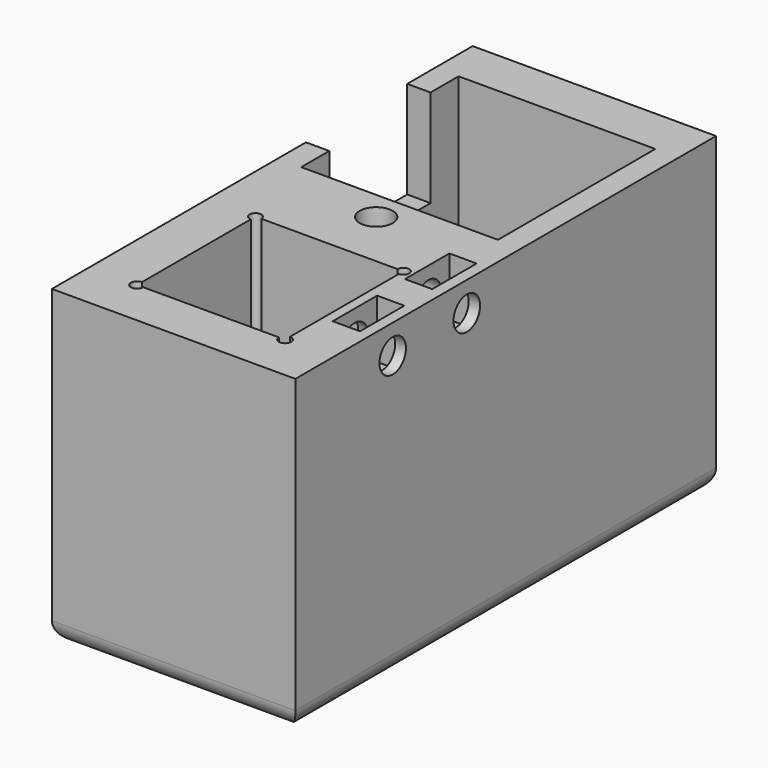
from build123d import *

# Parameters (mm, degrees)
SKETCH_W        = 25
SKETCH_H        = 54
PAD_DEPTH       = 32
SKETCH001_W     = 15.2
SKETCH001_H     = 15.2
SKETCH001_W_2   = 18
SKETCH001_H_2   = 18
POCKET_DEPTH    = 32.001
SKETCH002_W     = 20.2
SKETCH002_H     = 20.2
POCKET001_DEPTH = 30
SKETCH005_W     = 2.8
SKETCH005_H     = 5.7
POCKET002_DEPTH = 6
SKETCH003_R     = 1.7
POCKET003_DEPTH = 6
SKETCH006_W     = 5.7
SKETCH006_H     = 2.8
POCKET004_DEPTH = 6
SKETCH004_R     = 1.7
POCKET005_DEPTH = 6
SKETCH007_W     = 4
SKETCH007_H     = 13
POCKET006_DEPTH = 10
FILLET_R        = 2
SKETCH008_R     = 0.632456
SKETCH008_R_2   = 0.6
POCKET007_DEPTH = 32.001


with BuildPart() as part:
    # Sketch → Pad (new body)
    with BuildSketch(Plane.XY):
        with Locations((0, -2)):
            Rectangle(SKETCH_W, SKETCH_H)
    extrude(amount=PAD_DEPTH)

    # Sketch001 → Pocket (cut, through all)
    with BuildSketch(Plane(origin=(0, 0, 0), x_dir=(1, 0, 0), z_dir=(0, 0, -1))):
        with Locations((0, 16.6)):
            Rectangle(SKETCH001_W, SKETCH001_H)
        with Locations((0, -9.982677)):
            Rectangle(SKETCH001_W_2, SKETCH001_H_2)
    extrude(amount=-POCKET_DEPTH, mode=Mode.SUBTRACT)

    # Sketch002 → Pocket001 (cut)
    with BuildSketch(Plane.XY.offset(32)):
        with Locations((0, 10.1)):
            Rectangle(SKETCH002_W, SKETCH002_H)
    extrude(amount=-POCKET001_DEPTH, mode=Mode.SUBTRACT)

    # Sketch005 → Pocket002 (cut)
    with BuildSketch(Plane.XY.offset(32)):
        with Locations((9.935363, -7.131511)):
            Rectangle(SKETCH005_W, SKETCH005_H)
        with Locations((9.987245, -16.468893)):
            Rectangle(SKETCH005_W, SKETCH005_H)
    extrude(amount=-POCKET002_DEPTH, mode=Mode.SUBTRACT)

    # Sketch003 → Pocket003 (cut)
    with BuildSketch(Plane.YZ.offset(12.5)):
        with Locations((-6.998034, 28.990236)):
            Circle(SKETCH003_R)
        with Locations((-16.503597, 29.011274)):
            Circle(SKETCH003_R)
    extrude(amount=-POCKET003_DEPTH, mode=Mode.SUBTRACT)

    # Sketch006 → Pocket004 (cut)
    with BuildSketch(Plane(origin=(0, 0, 0), x_dir=(-1, 0, 0), z_dir=(0, 1, 0))):
        with Locations((0, 28.604247)):
            Rectangle(SKETCH006_W, SKETCH006_H)
    extrude(amount=-POCKET004_DEPTH, mode=Mode.SUBTRACT)

    # Sketch004 → Pocket005 (cut)
    with BuildSketch(Plane.XY.offset(32)):
        with Locations((0, -3)):
            Circle(SKETCH004_R)
    extrude(amount=-POCKET005_DEPTH, mode=Mode.SUBTRACT)

    # Sketch007 → Pocket006 (cut)
    with BuildSketch(Plane.XY.offset(32)):
        with Locations((-11, 10.1)):
            Rectangle(SKETCH007_W, SKETCH007_H)
    extrude(amount=-POCKET006_DEPTH, mode=Mode.SUBTRACT)

    # Fillet
    fillet_edges = [part.edges().sort_by_distance(p)[0] for p in [
        (12.5, -2, 0),
        (0, -29, 0),
        (-12.5, -2, 0),
        (0, 25, 0),
    ]]
    fillet(fillet_edges, radius=FILLET_R)

    # Sketch008 → Pocket007 (cut, through all)
    with BuildSketch(Plane(origin=(0, 0, 0), x_dir=(1, 0, 0), z_dir=(0, 0, -1))):
        with Locations((-7.6, 24.200001)):
            Circle(SKETCH008_R)
        with Locations((7.6, 24.2)):
            Circle(SKETCH008_R)
        with Locations((7.6, 9)):
            Circle(SKETCH008_R_2)
        with Locations((-7.6, 9)):
            Circle(SKETCH008_R_2)
    extrude(amount=-POCKET007_DEPTH, mode=Mode.SUBTRACT)


solid = part.part
